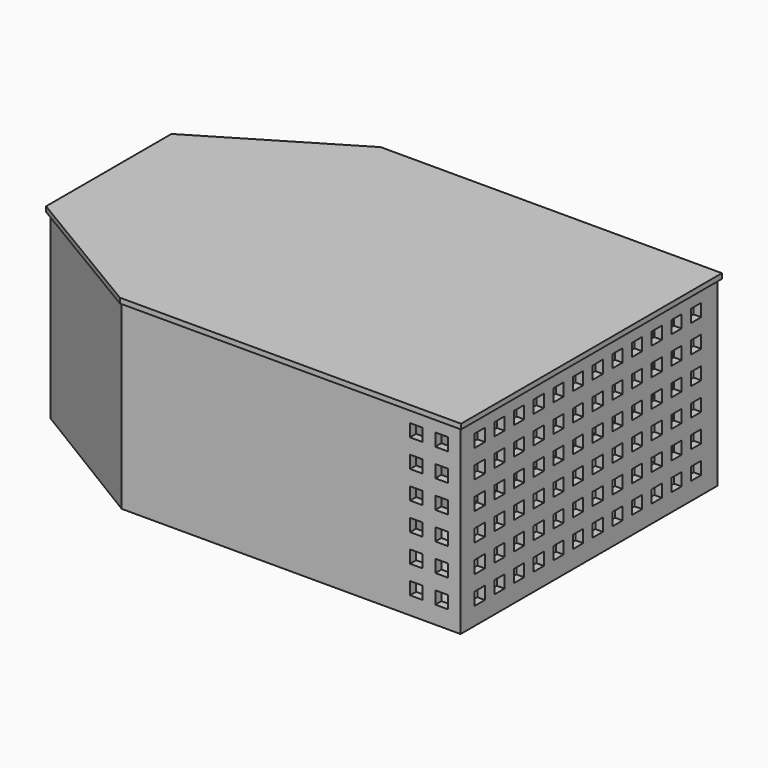
from build123d import *

# Parameters (mm, degrees)
SKETCH032_W            = 10
SKETCH032_H            = 10
SKETCH033_W            = 10
SKETCH033_H            = 1
SKETCH027_W            = 50
SKETCH027_H            = 120
PAD011_DEPTH           = 2
SKETCH028_W            = 50
SKETCH028_H            = 120
SKETCH028_W_2          = 46
SKETCH028_H_2          = 116
PAD012_DEPTH           = 33
SKETCH029_W            = 1.5
SKETCH029_H            = 10
POCKET012_DEPTH        = 2
LINEARPATTERN002_COUNT = 10
LINEARPATTERN002_PITCH = 11.555556
SKETCH030_W            = 10
SKETCH030_H            = 1.5
POCKET013_DEPTH        = 2
LINEARPATTERN003_COUNT = 10
LINEARPATTERN003_PITCH = 11.555556
SKETCH031_W            = 8
SKETCH031_H            = 15
PAD013_DEPTH           = 0.8
POCKET014_DEPTH        = 3
SKETCH035_W            = 1
SKETCH035_H            = 118
POCKET015_DEPTH        = 2
SKETCH036_W            = 50
SKETCH036_H            = 120
PAD014_DEPTH           = 2
SKETCH037_W            = 18
SKETCH037_H            = 1
PAD015_DEPTH           = 3
SKETCH038_W            = 1
SKETCH038_H            = 118
PAD016_DEPTH           = 2
SKETCH039_W            = 1.5
SKETCH039_H            = 10
POCKET016_DEPTH        = 2
LINEARPATTERN004_COUNT = 10
LINEARPATTERN004_PITCH = 11.555556
PAD_DEPTH              = 70
PAD017_DEPTH           = 2
SKETCH041_W            = 3
SKETCH041_H            = 121
PAD018_DEPTH           = 70
SKETCH042_W            = 121
SKETCH042_H            = 22
POCKET_DEPTH           = 3
SKETCH043_W            = 121
SKETCH043_H            = 22
POCKET017_DEPTH        = 3
SKETCH044_W            = 121
SKETCH044_H            = 28
POCKET018_DEPTH        = 3
SKETCH045_R            = 29
SKETCH045_R_2          = 2.5
POCKET019_DEPTH        = 5
SKETCH046_W            = 10
SKETCH046_H            = 1
POCKET020_DEPTH        = 28
SKETCH047_W            = 5
SKETCH047_H            = 5
POCKET021_DEPTH        = 130
LINEARPATTERN_COUNT    = 6
LINEARPATTERN_PITCH    = 11
SKETCH048_W            = 5
SKETCH048_H            = 5
POCKET022_DEPTH        = 5
LINEARPATTERN005_COUNT = 12
LINEARPATTERN005_PITCH = 9.727273
POCKET023_DEPTH        = 7
SKETCH050_W            = 106
SKETCH050_H            = 123
POCKET024_DEPTH        = 7
SKETCH051_W            = 21
SKETCH051_H            = 123
POCKET025_DEPTH        = 3
SKETCH064_R            = 4
PAD023_DEPTH           = 3
SKETCH065_R            = 2.1
PAD024_DEPTH           = 10
SKETCH066_R            = 1.1
POCKET026_DEPTH        = 10
CHAMFER_SIZE           = 2.5
CHAMFER001_SIZE        = 0.5
SKETCH056_W            = 119
SKETCH056_H            = 48
SKETCH057_W            = 58
SKETCH057_H            = 10
PAD019_DEPTH           = 2
PAD020_DEPTH           = 7
SKETCH054_W            = 106
SKETCH054_H            = 123
SKETCH054_W_2          = 104
SKETCH054_H_2          = 121
PAD021_DEPTH           = 7
SKETCH055_W            = 21
SKETCH055_H            = 123
SKETCH055_W_2          = 19
SKETCH055_H_2          = 121
PAD022_DEPTH           = 3
SKETCH067_W            = 2.7
SKETCH067_H            = 123
POCKET027_DEPTH        = 7
SKETCH068_W            = 2.6
SKETCH068_H            = 123
POCKET028_DEPTH        = 9
CHAMFER002_SIZE        = 0.6
CHAMFER003_SIZE        = 1.6
FILLET_R               = 0.3
FILLET001_R            = 0.3
CHAMFER004_SIZE        = 0.3
FILLET002_R            = 6


with BuildPart() as loft001:
    # Sketch032 (on Face780 of Mirrored) → Loft001 section 0
    with BuildSketch(Plane.XZ.offset(-58)):
        with Locations((0, 30)):
            Rectangle(SKETCH032_W, SKETCH032_H)
    # Sketch033 (on Face780 of Mirrored) → Loft001 section 1
    with BuildSketch(Plane.XZ.offset(-56)):
        with Locations((0, 34.5)):
            Rectangle(SKETCH033_W, SKETCH033_H)
    loft()


with BuildPart() as loft001_1:
    # Loft001 placement: moved
    add(loft001.part.moved(Location((0, 0, 100))))


with BuildPart() as mirror_of_loft001:
    # mirror: instance of Loft001
    add(loft001_1.part.mirror(Plane(origin=(0, 0, 0), x_dir=(1, 0, 0), z_dir=(0, 1, 0))))


with BuildPart() as fusion001:
    # Fusion001 base: copy of Loft001
    add(loft001_1.part)

    # Fusion001: union Mirror of Loft001
    add(mirror_of_loft001.part)


with BuildPart() as container:
    # Sketch027 → Pad011 (new body)
    with BuildSketch(Plane.XY):
        Rectangle(SKETCH027_W, SKETCH027_H)
    extrude(amount=PAD011_DEPTH)

    # Sketch028 (on Face6 of Pad011) → Pad012 (join)
    with BuildSketch(Plane.XY.offset(2)):
        Rectangle(SKETCH028_W, SKETCH028_H)
        Rectangle(SKETCH028_W_2, SKETCH028_H_2, mode=Mode.SUBTRACT)
    extrude(amount=PAD012_DEPTH)

    # Sketch029 (on Face15 of Pad012) → Pocket012 (cut)
    with BuildSketch(Plane.XY.offset(2)):
        with Locations((-21, 52)):
            Rectangle(SKETCH029_W, SKETCH029_H)
        with Locations((-18, 52)):
            Rectangle(SKETCH029_W, SKETCH029_H)
        with Locations((-15, 52)):
            Rectangle(SKETCH029_W, SKETCH029_H)
        with Locations((-12, 52)):
            Rectangle(SKETCH029_W, SKETCH029_H)
        with Locations((-9, 52)):
            Rectangle(SKETCH029_W, SKETCH029_H)
        with Locations((-6, 52)):
            Rectangle(SKETCH029_W, SKETCH029_H)
        with Locations((-3, 52)):
            Rectangle(SKETCH029_W, SKETCH029_H)
        with Locations((0, 52)):
            Rectangle(SKETCH029_W, SKETCH029_H)
        with Locations((3, 52)):
            Rectangle(SKETCH029_W, SKETCH029_H)
        with Locations((6, 52)):
            Rectangle(SKETCH029_W, SKETCH029_H)
        with Locations((9, 52)):
            Rectangle(SKETCH029_W, SKETCH029_H)
        with Locations((12, 52)):
            Rectangle(SKETCH029_W, SKETCH029_H)
        with Locations((15, 52)):
            Rectangle(SKETCH029_W, SKETCH029_H)
        with Locations((18, 52)):
            Rectangle(SKETCH029_W, SKETCH029_H)
        with Locations((21, 52)):
            Rectangle(SKETCH029_W, SKETCH029_H)
    pocket012 = extrude(amount=-POCKET012_DEPTH, mode=Mode.SUBTRACT)

    # LinearPattern002: Pocket012 ×10
    with Locations(*[(0, -i * LINEARPATTERN002_PITCH, 0) for i in range(1, LINEARPATTERN002_COUNT)]):
        add(pocket012, mode=Mode.SUBTRACT)

    # Sketch030 (on Face8 of LinearPattern002) → Pocket013 (cut)
    with BuildSketch(Plane.YZ.offset(25)):
        with Locations((-52, 31.25)):
            Rectangle(SKETCH030_W, SKETCH030_H)
        with Locations((-52, 28.25)):
            Rectangle(SKETCH030_W, SKETCH030_H)
        with Locations((-52, 25.25)):
            Rectangle(SKETCH030_W, SKETCH030_H)
        with Locations((-52, 22.25)):
            Rectangle(SKETCH030_W, SKETCH030_H)
    pocket013 = extrude(amount=-POCKET013_DEPTH, mode=Mode.SUBTRACT)

    # LinearPattern003: Pocket013 ×10
    with Locations(*[(0, i * LINEARPATTERN003_PITCH, 0) for i in range(1, LINEARPATTERN003_COUNT)]):
        add(pocket013, mode=Mode.SUBTRACT)

    # Sketch031 (on Face5 of LinearPattern003) → Pad013 (join)
    with BuildSketch(Plane(origin=(0, 60, 0), x_dir=(-1, 0, 0), z_dir=(0, 1, 0))):
        with Locations((0, 27.5)):
            Rectangle(SKETCH031_W, SKETCH031_H)
    pad013 = extrude(amount=PAD013_DEPTH)

    # Mirrored: Pad013 across XZ
    add(pad013.mirror(Plane.XZ))


with BuildPart() as container_1:
    # Body003 placement: moved
    add(container.part.moved(Location((0, 0, 100))))

    # Fusion002: union Fusion001
    add(fusion001.part)

    # Sketch034 (on Face609 of BaseFeature001) → Pocket014 (cut)
    with BuildSketch(Plane.XY.offset(135)):
        Polygon((-24, 59), (-5, 59), (-5, 49), (5, 49), (5, 59), (23, 59), (23, -59), (5, -59), (5, -49), (-5, -49), (-5, -59), (-24, -59), align=None)
    extrude(amount=-POCKET014_DEPTH, mode=Mode.SUBTRACT)

    # Sketch035 (on Face609 of Pocket014) → Pocket015 (cut)
    with BuildSketch(Plane.XY.offset(135)):
        with Locations((23.5, 0)):
            Rectangle(SKETCH035_W, SKETCH035_H)
    extrude(amount=-POCKET015_DEPTH, mode=Mode.SUBTRACT)


with BuildPart() as container_2:
    # Body004 placement: moved
    add(container_1.part.moved(Location((0, 0, -78))))


with BuildPart() as container_cup:
    # Sketch036 → Pad014 (new body)
    with BuildSketch(Plane.XY.offset(200)):
        Rectangle(SKETCH036_W, SKETCH036_H)
    extrude(amount=PAD014_DEPTH)

    # Sketch037 (on Face5 of Pad014) → Pad015 (join)
    with BuildSketch(Plane(origin=(0, 0, 200), x_dir=(1, 0, 0), z_dir=(0, 0, -1))):
        Polygon((-24, 59), (-5, 59), (-5, 58), (-23, 58), (-23, -58), (-5, -58), (-5, -59), (-24, -59), align=None)
        with Locations((14, -58.5)):
            Rectangle(SKETCH037_W, SKETCH037_H)
        with Locations((14, 58.5)):
            Rectangle(SKETCH037_W, SKETCH037_H)
    extrude(amount=PAD015_DEPTH)

    # Sketch038 (on Face4 of Pad015) → Pad016 (join)
    with BuildSketch(Plane(origin=(0, 0, 200), x_dir=(1, 0, 0), z_dir=(0, 0, -1))):
        with Locations((23.5, 0)):
            Rectangle(SKETCH038_W, SKETCH038_H)
    extrude(amount=PAD016_DEPTH)

    # Sketch039 (on Face5 of Pad016) → Pocket016 (cut)
    with BuildSketch(Plane.XY.offset(202)):
        with Locations((-21, 52)):
            Rectangle(SKETCH039_W, SKETCH039_H)
        with Locations((-18, 52)):
            Rectangle(SKETCH039_W, SKETCH039_H)
        with Locations((-15, 52)):
            Rectangle(SKETCH039_W, SKETCH039_H)
        with Locations((-12, 52)):
            Rectangle(SKETCH039_W, SKETCH039_H)
        with Locations((-9, 52)):
            Rectangle(SKETCH039_W, SKETCH039_H)
        with Locations((-6, 52)):
            Rectangle(SKETCH039_W, SKETCH039_H)
        with Locations((-3, 52)):
            Rectangle(SKETCH039_W, SKETCH039_H)
        with Locations((0, 52)):
            Rectangle(SKETCH039_W, SKETCH039_H)
        with Locations((3, 52)):
            Rectangle(SKETCH039_W, SKETCH039_H)
        with Locations((6, 52)):
            Rectangle(SKETCH039_W, SKETCH039_H)
        with Locations((9, 52)):
            Rectangle(SKETCH039_W, SKETCH039_H)
        with Locations((12, 52)):
            Rectangle(SKETCH039_W, SKETCH039_H)
        with Locations((15, 52)):
            Rectangle(SKETCH039_W, SKETCH039_H)
        with Locations((18, 52)):
            Rectangle(SKETCH039_W, SKETCH039_H)
        with Locations((21, 52)):
            Rectangle(SKETCH039_W, SKETCH039_H)
    pocket016 = extrude(amount=-POCKET016_DEPTH, mode=Mode.SUBTRACT)

    # LinearPattern004: Pocket016 ×10
    with Locations(*[(0, -i * LINEARPATTERN004_PITCH, 0) for i in range(1, LINEARPATTERN004_COUNT)]):
        add(pocket016, mode=Mode.SUBTRACT)


with BuildPart() as container_cup_1:
    # Body005 placement: moved
    add(container_cup.part.moved(Location((0, 0, -143))))


with BuildPart() as box:
    # Sketch → Pad (new body)
    with BuildSketch(Plane.XY):
        Polygon((-83.5, 30), (-83.5, -30), (-28.581967, -63.5), (105.5, -63.5), (105.5, 63.5), (-28.581967, 63.5), align=None)
        Polygon((-78.5, 30), (-28.5, 60.5), (25.5, 60.5), (79.5, 60.5), (102.5, 60.5), (102.5, -60.5), (79.5, -60.5), (25.5, -60.5), (-28.5, -60.5), (-78.5, -30), align=None, mode=Mode.SUBTRACT)
    extrude(amount=PAD_DEPTH)

    # Sketch040 (on Face17 of Pad) → Pad017 (join)
    with BuildSketch(Plane(origin=(0, 0, 0), x_dir=(1, 0, 0), z_dir=(0, 0, -1))):
        Polygon((-83.5, 30), (-28.581967, 63.5), (105.5, 63.5), (105.5, -63.5), (-28.581967, -63.5), (-83.5, -30), align=None)
    extrude(amount=PAD017_DEPTH)

    # Sketch041 (on Face5 of Pad017) → Pad018 (join)
    with BuildSketch(Plane.XY.offset(70)):
        with Locations((-27, 0)):
            Rectangle(SKETCH041_W, SKETCH041_H)
        with Locations((27, 0)):
            Rectangle(SKETCH041_W, SKETCH041_H)
        with Locations((81, 0)):
            Rectangle(SKETCH041_W, SKETCH041_H)
    extrude(amount=-PAD018_DEPTH)

    # Sketch042 (on Face28 of Pad018) → Pocket (cut)
    with BuildSketch(Plane(origin=(-28.5, 0, 0), x_dir=(0, -1, 0), z_dir=(-1, 0, 0))):
        with Locations((0, 11)):
            Rectangle(SKETCH042_W, SKETCH042_H)
    extrude(amount=-POCKET_DEPTH, mode=Mode.SUBTRACT)

    # Sketch043 (on Face37 of Pocket) → Pocket017 (cut)
    with BuildSketch(Plane.YZ.offset(82.5)):
        with Locations((0, 11)):
            Rectangle(SKETCH043_W, SKETCH043_H)
    extrude(amount=-POCKET017_DEPTH, mode=Mode.SUBTRACT)

    # Sketch044 (on Face34 of Pocket017) → Pocket018 (cut)
    with BuildSketch(Plane.YZ.offset(28.5)):
        with Locations((0, 56)):
            Rectangle(SKETCH044_W, SKETCH044_H)
    extrude(amount=-POCKET018_DEPTH, mode=Mode.SUBTRACT)

    # Sketch045 (on Face1 of Pocket018) → Pocket019 (cut)
    with BuildSketch(Plane(origin=(-83.5, 0, 0), x_dir=(0, -1, 0), z_dir=(-1, 0, 0))):
        with Locations((0, 30)):
            Circle(SKETCH045_R)
        with Locations((-25, 5)):
            Circle(SKETCH045_R_2)
        with Locations((-25, 55)):
            Circle(SKETCH045_R_2)
        with Locations((25, 55)):
            Circle(SKETCH045_R_2)
        with Locations((25, 5)):
            Circle(SKETCH045_R_2)
    extrude(amount=-POCKET019_DEPTH, mode=Mode.SUBTRACT)

    # Sketch046 (on Face4 of Pocket019) → Pocket020 (cut)
    with BuildSketch(Plane.XY.offset(70)):
        with Locations((0, 61)):
            Rectangle(SKETCH046_W, SKETCH046_H)
        with Locations((54, 61)):
            Rectangle(SKETCH046_W, SKETCH046_H)
        with Locations((0, -61)):
            Rectangle(SKETCH046_W, SKETCH046_H)
        with Locations((54, -61)):
            Rectangle(SKETCH046_W, SKETCH046_H)
    extrude(amount=-POCKET020_DEPTH, mode=Mode.SUBTRACT)

    # Sketch047 (on Face15 of Pocket020) → Pocket021 (cut)
    with BuildSketch(Plane.XZ.offset(63.5)):
        with Locations((88, 62.5)):
            Rectangle(SKETCH047_W, SKETCH047_H)
        with Locations((98, 62.5)):
            Rectangle(SKETCH047_W, SKETCH047_H)
    pocket021 = extrude(amount=-POCKET021_DEPTH, mode=Mode.SUBTRACT)

    # LinearPattern: Pocket021 ×6
    with Locations(*[(0, 0, -i * LINEARPATTERN_PITCH) for i in range(1, LINEARPATTERN_COUNT)]):
        add(pocket021, mode=Mode.SUBTRACT)

    # Sketch048 (on Face16 of LinearPattern) → Pocket022 (cut)
    with BuildSketch(Plane.YZ.offset(105.5)):
        with Locations((-54, 62.5)):
            Rectangle(SKETCH048_W, SKETCH048_H)
        with Locations((-54, 51.5)):
            Rectangle(SKETCH048_W, SKETCH048_H)
        with Locations((-54, 40.5)):
            Rectangle(SKETCH048_W, SKETCH048_H)
        with Locations((-54, 29.5)):
            Rectangle(SKETCH048_W, SKETCH048_H)
        with Locations((-54, 18.5)):
            Rectangle(SKETCH048_W, SKETCH048_H)
        with Locations((-54, 7.5)):
            Rectangle(SKETCH048_W, SKETCH048_H)
    pocket022 = extrude(amount=-POCKET022_DEPTH, mode=Mode.SUBTRACT)

    # LinearPattern005: Pocket022 ×12
    with Locations(*[(0, i * LINEARPATTERN005_PITCH, 0) for i in range(1, LINEARPATTERN005_COUNT)]):
        add(pocket022, mode=Mode.SUBTRACT)

    # Sketch049 (on Face19 of LinearPattern005) → Pocket023 (cut)
    with BuildSketch(Plane.XY.offset(70)):
        Polygon((-79.5, -30), (-79.5, 30), (-28.5, 61.5), (-27.5, 61.5), (-27.5, -61.5), (-28.5, -61.5), align=None)
    extrude(amount=-POCKET023_DEPTH, mode=Mode.SUBTRACT)

    # Sketch050 (on Face4 of Pocket023) → Pocket024 (cut)
    with BuildSketch(Plane.XY.offset(70)):
        with Locations((27.5, 0)):
            Rectangle(SKETCH050_W, SKETCH050_H)
    extrude(amount=-POCKET024_DEPTH, mode=Mode.SUBTRACT)

    # Sketch051 (on Face4 of Pocket024) → Pocket025 (cut)
    with BuildSketch(Plane.XY.offset(70)):
        with Locations((93, 0)):
            Rectangle(SKETCH051_W, SKETCH051_H)
    extrude(amount=-POCKET025_DEPTH, mode=Mode.SUBTRACT)


with BuildPart() as pin:
    # Sketch064 → Pad023 (new body)
    with BuildSketch(Plane.YZ):
        Circle(SKETCH064_R)
    extrude(amount=PAD023_DEPTH)

    # Sketch065 (on Face2 of Pad023) → Pad024 (join)
    with BuildSketch(Plane(origin=(0, 0, 0), x_dir=(0, 1, 0), z_dir=(-1, 0, 0))):
        Circle(SKETCH065_R)
    extrude(amount=PAD024_DEPTH)

    # Sketch066 (on Face5 of Pad024) → Pocket026 (cut)
    with BuildSketch(Plane(origin=(-10, 0, 0), x_dir=(0, 1, 0), z_dir=(-1, 0, 0))):
        Circle(SKETCH066_R)
    extrude(amount=-POCKET026_DEPTH, mode=Mode.SUBTRACT)

    # Chamfer
    chamfer_edges = [pin.edges().sort_by_distance(p)[0] for p in [
        (3, -4, 0),
    ]]
    chamfer(chamfer_edges, length=CHAMFER_SIZE)

    # Chamfer001
    chamfer001_edges = [pin.edges().sort_by_distance(p)[0] for p in [
        (-10, -2.1, 0),
    ]]
    chamfer(chamfer001_edges, length=CHAMFER001_SIZE)


with BuildPart() as pin_1:
    # Body010 placement: moved
    add(pin.part.moved(Location((-78.5, 25, 55))))


with BuildPart() as loft_body:
    # Sketch056 (on Face28 of Pad022) → Loft section 0
    with BuildSketch(Plane(origin=(-28.5, 0, 0), x_dir=(0, -1, 0), z_dir=(-1, 0, 0))):
        with Locations((0, -24)):
            Rectangle(SKETCH056_W, SKETCH056_H)
    # Sketch057 (on Face26 of Pad022) → Loft section 1
    with BuildSketch(Plane.YZ.offset(-77.5)):
        with Locations((0, -5)):
            Rectangle(SKETCH057_W, SKETCH057_H)
    loft()


with BuildPart() as loft_body_1:
    # Loft placement: moved
    add(loft_body.part.moved(Location((0, 0, 70))))


with BuildPart() as cup:
    # Sketch052 → Pad019 (new body)
    with BuildSketch(Plane.XY):
        Polygon((-84.5, 31), (-84.5, -31), (-28.5, -64.5), (106.5, -64.5), (106.5, 64.5), (-28.5, 64.5), align=None)
    extrude(amount=PAD019_DEPTH)

    # Sketch053 (on Face7 of Pad019) → Pad020 (join)
    with BuildSketch(Plane(origin=(0, 0, 0), x_dir=(1, 0, 0), z_dir=(0, 0, -1))):
        Polygon((-79.5, 30), (-28.5, 61.5), (-27.5, 61.5), (-27.5, -61.5), (-28.5, -61.5), (-79.5, -30), align=None)
        Polygon((-77.5, 29), (-28.5, 59.5), (-28.5, -59.5), (-77.5, -29), align=None, mode=Mode.SUBTRACT)
    extrude(amount=PAD020_DEPTH)

    # Sketch054 (on Face4 of Pad020) → Pad021 (join)
    with BuildSketch(Plane(origin=(0, 0, 0), x_dir=(1, 0, 0), z_dir=(0, 0, -1))):
        with Locations((27.5, 0)):
            Rectangle(SKETCH054_W, SKETCH054_H)
        with Locations((27.5, 0)):
            Rectangle(SKETCH054_W_2, SKETCH054_H_2, mode=Mode.SUBTRACT)
    extrude(amount=PAD021_DEPTH)

    # Sketch055 (on Face4 of Pad021) → Pad022 (join)
    with BuildSketch(Plane(origin=(0, 0, 0), x_dir=(1, 0, 0), z_dir=(0, 0, -1))):
        with Locations((93, 0)):
            Rectangle(SKETCH055_W, SKETCH055_H)
        with Locations((93, 0)):
            Rectangle(SKETCH055_W_2, SKETCH055_H_2, mode=Mode.SUBTRACT)
    extrude(amount=PAD022_DEPTH)

    # Sketch067 (on Face4 of Pad022) → Pocket027 (cut)
    with BuildSketch(Plane(origin=(0, 0, 0), x_dir=(1, 0, 0), z_dir=(0, 0, -1))):
        with Locations((-26.65, 0)):
            Rectangle(SKETCH067_W, SKETCH067_H)
    extrude(amount=POCKET027_DEPTH, mode=Mode.SUBTRACT)

    # Sketch068 (on Face4 of Pocket027) → Pocket028 (cut)
    with BuildSketch(Plane(origin=(0, 0, 0), x_dir=(1, 0, 0), z_dir=(0, 0, -1))):
        with Locations((81.5, 0)):
            Rectangle(SKETCH068_W, SKETCH068_H)
    extrude(amount=POCKET028_DEPTH, mode=Mode.SUBTRACT)


with BuildPart() as cup_1:
    # Body006 placement: moved
    add(cup.part.moved(Location((0, 0, 70))))

    # Fusion: union Loft body
    add(loft_body_1.part)

    # Chamfer002
    chamfer002_edges = [cup_1.edges().sort_by_distance(p)[0] for p in [
        (82.8, 0, 67),
        (103.5, 0, 67),
        (93.15, 61.5, 67),
        (93.15, -61.5, 67),
        (27.45, -61.5, 63),
        (80.2, 0, 63),
        (-25.3, 0, 63),
        (27.45, 61.5, 63),
    ]]
    chamfer(chamfer002_edges, length=CHAMFER002_SIZE)

    # Chamfer003
    chamfer003_edges = [cup_1.edges().sort_by_distance(p)[0] for p in [
        (-54, -45.75, 63),
        (-79.5, 0, 63),
        (-54, 45.75, 63),
    ]]
    chamfer(chamfer003_edges, length=CHAMFER003_SIZE)

    # Fillet
    fillet_edges = [cup_1.edges().sort_by_distance(p)[0] for p in [
        (-28.5, 61.5, 67.3),
        (-28, 61.5, 67.168627),
    ]]
    fillet(fillet_edges, radius=FILLET_R)

    # Fillet001
    fillet001_edges = [cup_1.edges().sort_by_distance(p)[0] for p in [
        (-28.5, -61.5, 67.3),
        (-28, -61.5, 67.168627),
    ]]
    fillet(fillet001_edges, radius=FILLET001_R)

    # Chamfer004
    chamfer004_edges = [cup_1.edges().sort_by_distance(p)[0] for p in [
        (-28, 0, 63),
    ]]
    chamfer(chamfer004_edges, length=CHAMFER004_SIZE)

    # Fillet002
    fillet002_edges = [cup_1.edges().sort_by_distance(p)[0] for p in [
        (-77.5, 0, 60),
    ]]
    fillet(fillet002_edges, radius=FILLET002_R)


solid = Compound([container_2.part, container_cup_1.part, box.part, pin_1.part, cup_1.part])
